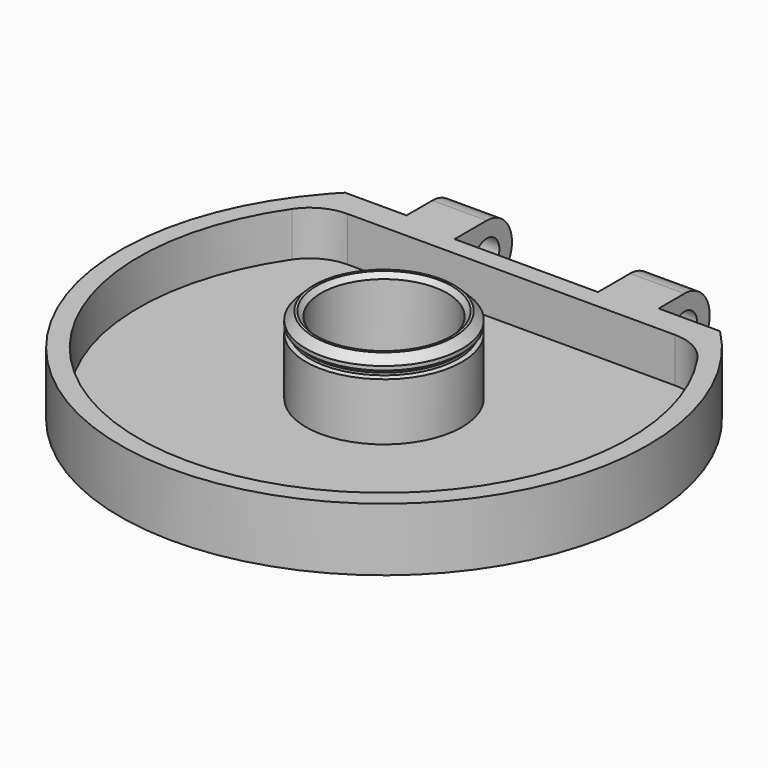
from build123d import *

# Parameters (mm, degrees)
F1_DEPTH       = 4
F3_DEPTH       = 2.83
F6_DEPTH       = 1.171
F7_SIZE        = 0.5
F8_SIZE        = 0.3
F9_R           = 1
F10_DEPTH      = 8
F10_DEPTH_BACK = 8
F11_W          = 9.1
F11_H          = 5.6
F12_DEPTH      = 0.5
F12_DEPTH_BACK = 4.051
F13_R          = 3


with BuildPart() as f1:
    # F0 (on Top) → F1 (new body)
    with BuildSketch(Plane.XY):
        with BuildLine():
            Line((11.9, 11.7878115017), (-11.9, 11.7878115017))
            ThreePointArc((-11.9, 11.7878115017), (-12.2113231748, 11.464993952), (-12.5138921377, 11.1339572285))
            ThreePointArc((-12.5138921377, 11.1339572285), (0.4484386712, -16.7439960212), (11.9, 11.7878115017))
        make_face()
    extrude(amount=F1_DEPTH)

    # F2 (on face) → F3 (cut)
    with BuildSketch(Plane.XY.offset(4)):
        with BuildLine():
            Line((11.8731823496, 10.0878115017), (-11.8731823496, 10.0878115017))
            ThreePointArc((-11.8731823496, 10.0878115017), (0, -15.58), (11.8731823496, 10.0878115017))
        make_face()
    extrude(amount=-F3_DEPTH, mode=Mode.SUBTRACT)

    # F4 (on Front) → F5 (revolve)
    with BuildSketch(Plane.XZ):
        Polygon((4, 1.17), (4.95, 1.17), (4.95, 4.8090074414), (4.7, 4.9), (4.7, 5.05), (4.95, 5.3), (4.95, 6.05), (4, 6.05), align=None)
    revolve(axis=Axis((0, 0, 5.7729503606), (0, 0, 1)))

    # F6 (cut, through all): a face of the model
    f6_faces = [f1.faces().sort_by_distance(p)[0] for p in [
        (0, 0, 1.17),
    ]]
    extrude(f6_faces, amount=-F6_DEPTH, mode=Mode.SUBTRACT)

    # F7
    f7_edges = [f1.edges().sort_by_distance(p)[0] for p in [
        (-4.95, 0, 6.05),
    ]]
    chamfer(f7_edges, length=F7_SIZE)

    # F8
    f8_edges = [f1.edges().sort_by_distance(p)[0] for p in [
        (-4, 0, 6.05),
    ]]
    chamfer(f8_edges, length=F8_SIZE)

    # F9 (on Right) → F10 (join, two sides)
    with BuildSketch(Plane.YZ) as f10_sk:
        with BuildLine():
            Line((13.8378115017, 4), (11.7878115017, 4))
            Line((11.7878115017, 4), (11.7878115017, 0))
            Line((11.7878115017, 0), (13.8378115017, 0))
            ThreePointArc((13.8378115017, 0), (15.8378115017, 2), (13.8378115017, 4))
        make_face()
        with Locations((13.8378115017, 2)):
            Circle(F9_R, mode=Mode.SUBTRACT)
    extrude(amount=F10_DEPTH)
    extrude(f10_sk.sketch, amount=-F10_DEPTH_BACK)

    # F11 (on face) → F12 (cut, two sides)
    with BuildSketch(Plane(origin=(0, 11.7878115017, 0), x_dir=(-1, 0, 0), z_dir=(0, 1, 0))) as f12_sk:
        with Locations((0, 2)):
            Rectangle(F11_W, F11_H)
    extrude(amount=-F12_DEPTH, mode=Mode.SUBTRACT)
    extrude(f12_sk.sketch, amount=F12_DEPTH_BACK, mode=Mode.SUBTRACT)

    # F13
    f13_edges = [f1.edges().sort_by_distance(p)[0] for p in [
        (-11.873182, 10.087812, 2.585),
        (11.873182, 10.087812, 2.585),
    ]]
    fillet(f13_edges, radius=F13_R)


solid = f1.part
